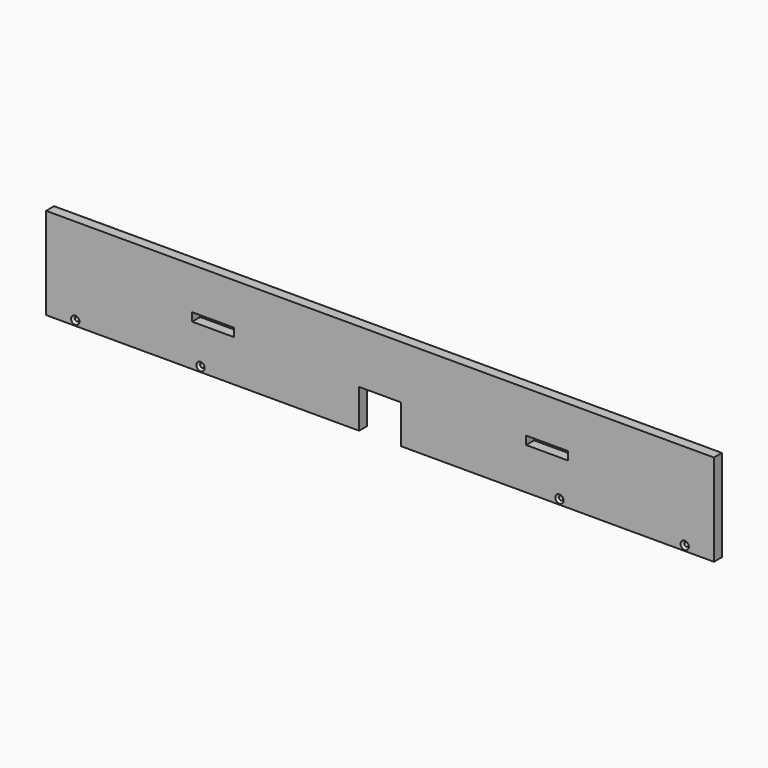
from build123d import *

# Parameters (mm, degrees)
F1_DEPTH       = 12
F3_D           = 5
F3_CSINK_D     = 10
F3_CSINK_ANGLE = 90
F4_W           = 50
F4_H           = 10
F5_DEPTH       = 25


with BuildPart() as f1:
    # F0 (on Front) → F1 (new body)
    with BuildSketch(Plane.XZ):
        Polygon((0, 110), (0, 0), (375, 0), (375, 46.2607331574), (425, 46.2607331574), (425, 0), (800, 0), (800, 110), align=None)
    extrude(amount=F1_DEPTH)

    # F3 (through all)
    with Locations(Plane.XZ.offset(12)):
        with Locations((35, 6), (185, 6), (615, 6), (765, 6)):
            CounterSinkHole(F3_D / 2, F3_CSINK_D / 2, counter_sink_angle=F3_CSINK_ANGLE)

    # F4 (on face) → F5 (cut)
    with BuildSketch(Plane.XZ.offset(12)):
        with Locations((200, 55)):
            Rectangle(F4_W, F4_H)
        with Locations((600, 55)):
            Rectangle(F4_W, F4_H)
    extrude(amount=-F5_DEPTH, mode=Mode.SUBTRACT)


solid = f1.part
